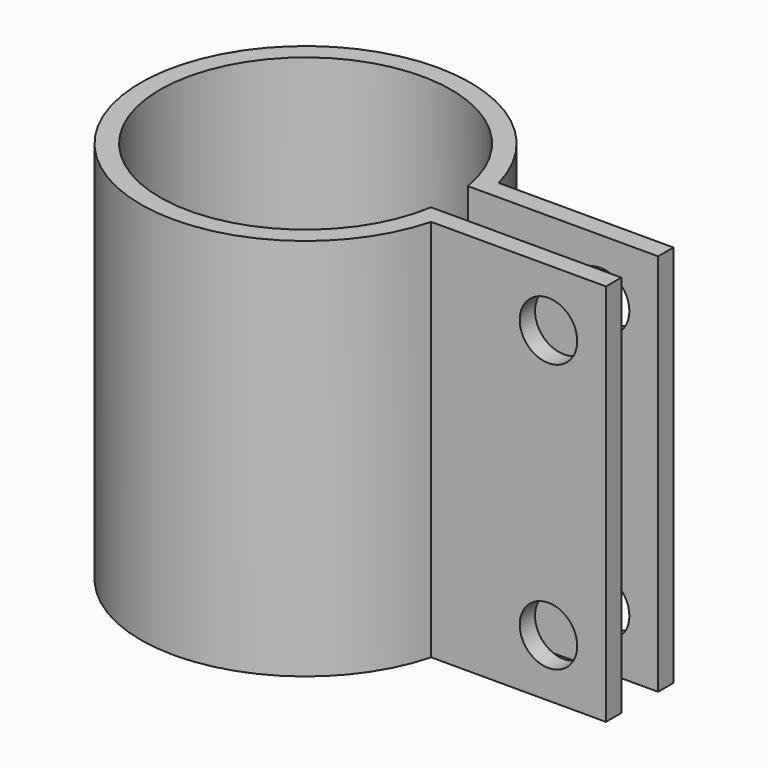
from build123d import *

# Parameters (mm, degrees)
F1_DEPTH = 25.4
F2_R     = 1.905
F3_DEPTH = 25.4


with BuildPart() as f1:
    # F0 (on Top) → F1 (new body)
    with BuildSketch(Plane.XY):
        with BuildLine():
            ThreePointArc((6.442593, -1.524), (-12.740332, 0), (6.442593, 1.524))
            Line((6.442593, 1.524), (19.05, 1.524))
            Line((19.05, 1.524), (19.05, 2.794))
            Line((19.05, 2.794), (7.470249, 2.794))
            ThreePointArc((7.470249, 2.794), (-14.010332, 0), (7.470249, -2.794))
            Line((7.470249, -2.794), (19.05, -2.794))
            Line((19.05, -2.794), (19.05, -1.524))
            Line((19.05, -1.524), (6.442593, -1.524))
        make_face()
    extrude(amount=F1_DEPTH)

    # F2 (on face) → F3 (cut)
    with BuildSketch(Plane.XZ.offset(2.794)):
        with Locations((15.24, 21.59)):
            Circle(F2_R)
        with Locations((15.24, 3.81)):
            Circle(F2_R)
    extrude(amount=-F3_DEPTH, mode=Mode.SUBTRACT)


solid = f1.part
